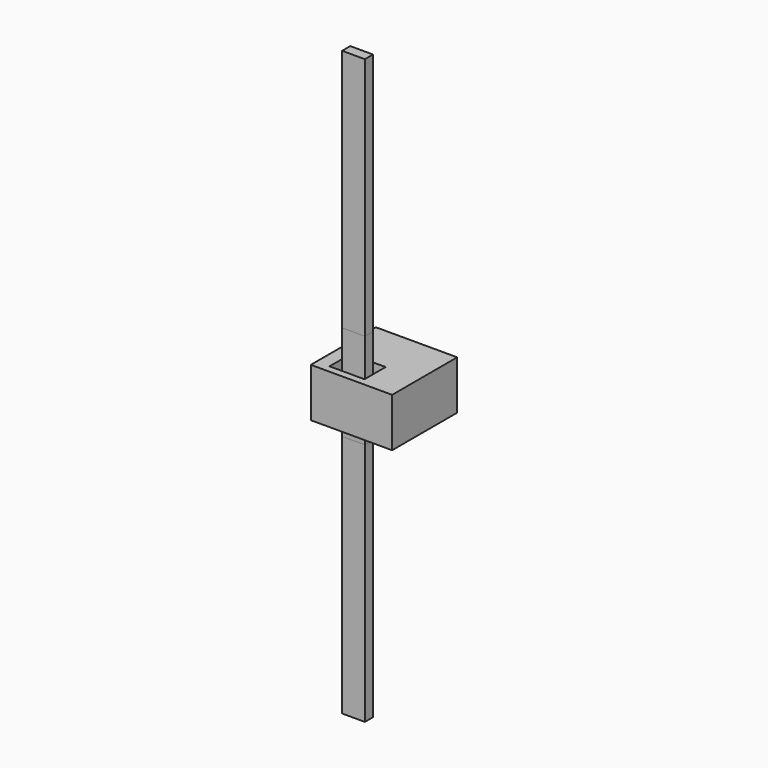
from build123d import *

# Parameters (mm, degrees)
F0_W      = 1016
F0_H      = 1016
F1_DEPTH  = 609.6
F2_W      = 436.88
F2_H      = 330.2
F2_W_2    = 284.48
F2_H_2    = 127
F3_DEPTH  = 609.601
F4_DEPTH  = 762
F5_DEPTH  = 1168.4
F6_DEPTH  = 431.8
F7_DEPTH  = 1193.8
F8_DEPTH  = 406.4
F9_DEPTH  = 1320.8
F10_DEPTH = 177.8
F11_DEPTH = 3048
F12_DEPTH = 3048


with BuildPart() as f1:
    # F0 (on Top) → F1 (new body)
    with BuildSketch(Plane.XY):
        with Locations((508, 508)):
            Rectangle(F0_W, F0_H)
    extrude(amount=F1_DEPTH)

    # F2 (on face) → F3 (cut, through all)
    with BuildSketch(Plane.XY.offset(609.6)):
        with Locations((381, 254)):
            Rectangle(F2_W, F2_H)
        with Locations((381, 254)):
            Rectangle(F2_W_2, F2_H_2, mode=Mode.SUBTRACT)
        with Locations((381, 254)):
            Rectangle(F2_W_2, F2_H_2)
    extrude(amount=-F3_DEPTH, mode=Mode.SUBTRACT)


with BuildPart() as f4:
    # F2 (on face) → F4 (new body, symmetric)
    with BuildSketch(Plane.XY.offset(609.6)):
        with Locations((381, 254)):
            Rectangle(F2_W_2, F2_H_2)
    extrude(amount=F4_DEPTH, both=True)

    # F5 (add): a face of the model
    f5_faces = [f4.faces().sort_by_distance(p)[0] for p in [
        (381, 254, -152.4),
    ]]
    extrude(f5_faces, amount=F5_DEPTH)

    # F6 (add): a face of the model
    f6_faces = [f4.faces().sort_by_distance(p)[0] for p in [
        (381, 254, 1371.6),
    ]]
    extrude(f6_faces, amount=F6_DEPTH)

    # F7 (cut, through all): a face of the model
    f7_faces = [f4.faces().sort_by_distance(p)[0] for p in [
        (381, 254, 1803.4),
    ]]
    extrude(f7_faces, amount=-F7_DEPTH, mode=Mode.SUBTRACT)

    # F8 (add): a face of the model
    f8_faces = [f4.faces().sort_by_distance(p)[0] for p in [
        (381, 254, 609.6),
    ]]
    extrude(f8_faces, amount=F8_DEPTH)

    # F9 (cut, through all): a face of the model
    f9_faces = [f4.faces().sort_by_distance(p)[0] for p in [
        (381, 254, -1320.8),
    ]]
    extrude(f9_faces, amount=-F9_DEPTH, mode=Mode.SUBTRACT)

    # F10 (add): a face of the model
    f10_faces = [f4.faces().sort_by_distance(p)[0] for p in [
        (381, 254, 0),
    ]]
    extrude(f10_faces, amount=F10_DEPTH)


with BuildPart() as f11:
    # F11 (new): a face of the model
    f11_faces = [f4.part.faces().sort_by_distance(p)[0] for p in [
        (381, 254, 1016),
    ]]
    extrude(f11_faces, amount=F11_DEPTH)


with BuildPart() as f12:
    # F12 (new): a face of the model
    f12_faces = [f4.part.faces().sort_by_distance(p)[0] for p in [
        (381, 254, -177.8),
    ]]
    extrude(f12_faces, amount=F12_DEPTH)


solid = Compound([f1.part, f4.part, f11.part, f12.part])
